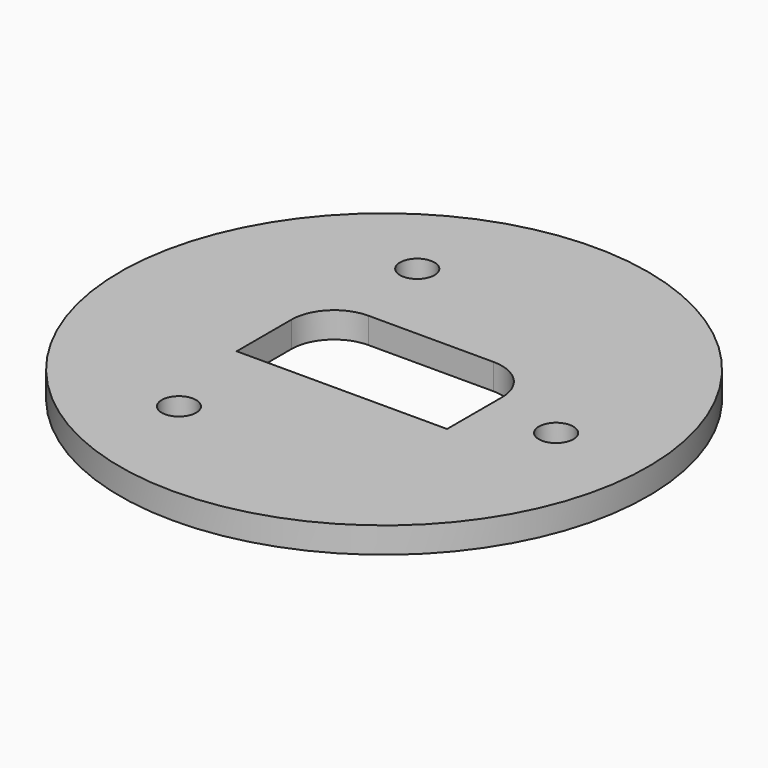
from build123d import *

# Parameters (mm, degrees)
SKETCH021_W     = 30.610564
SKETCH021_H     = 3
POCKET_DEPTH    = 3.001
SKETCH023_R     = 2
POCKET001_DEPTH = 3.001


with BuildPart() as part:
    # Sketch021 → Revolution008 (revolve)
    with BuildSketch(Plane.YZ):
        with Locations((-15.305282, 63.385058)):
            Rectangle(SKETCH021_W, SKETCH021_H)
    revolve(axis=Axis((0, 0, 0), (0, 0, 1)))

    # Sketch022 (on Face1 of Revolution008) → Pocket (cut, through all)
    with BuildSketch(Plane(origin=(0, 0, 64.885058), x_dir=(0, -1, 0), z_dir=(0, 0, 1))):
        with BuildLine():
            Line((-2.378645, 11.760677), (5.571355, 11.760677))
            Line((5.571355, 11.760677), (5.571355, -12.639323))
            Line((5.571355, -12.639323), (-2.378645, -12.639323))
            ThreePointArc((-7.328645, -7.689323), (-5.878824, -11.189501), (-2.378645, -12.639323))
            Line((-7.328645, -7.689323), (-7.328645, 6.810677))
            ThreePointArc((-2.378645, 11.760677), (-5.878824, 10.310856), (-7.328645, 6.810677))
        make_face()
    extrude(amount=-POCKET_DEPTH, mode=Mode.SUBTRACT)

    # Sketch023 (on Face1 of Pocket) → Pocket001 (cut, through all)
    with BuildSketch(Plane(origin=(0, 0, 64.885058), x_dir=(0, -1, 0), z_dir=(0, 0, 1))):
        with Locations((-17.273551, -9.97289)):
            Circle(SKETCH023_R)
        with Locations((17.273551, -9.97289)):
            Circle(SKETCH023_R)
        with Locations((0, 19.945779)):
            Circle(SKETCH023_R)
    extrude(amount=-POCKET001_DEPTH, mode=Mode.SUBTRACT)


solid = part.part
